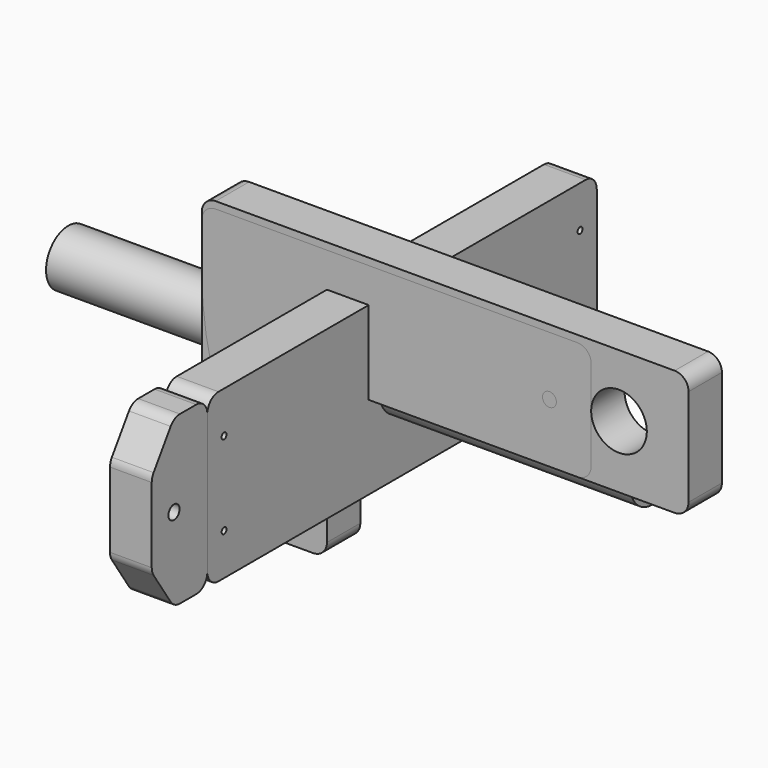
from build123d import *

# Parameters (mm, degrees)
F0_R            = 3.175
F0_R_2          = 12.7
F1_DEPTH        = 19.05
F2_R            = 6.35
F3_R            = 3.175
F4_DEPTH        = 19.05
F5_R            = 6.35
F6_R            = 3.175
F7_W            = 222.25
F7_H            = 76.2
F8_DEPTH        = 19.05
F7_R            = 3.175
F9_DEPTH        = 19.05
F10_R           = 12.7
F11_DEPTH       = 133.35
F12_R           = 6.35
F12_2_R         = 6.35
F13_D           = 2.794
F13_CSINK_D     = 7.62
F13_CSINK_ANGLE = 90


with BuildPart() as f1:
    # F0 (on Front) → F1 (new body)
    with BuildSketch(Plane.XZ):
        Polygon((0, -66.675), (0, 0), (165.1, 0), (165.1, 57.15), (-57.15, 57.15), (-57.15, -66.675), align=None)
        with Locations((-12.7, -42.8625)):
            Circle(F0_R, mode=Mode.SUBTRACT)
        with Locations((-44.45, 28.575)):
            Circle(F0_R, mode=Mode.SUBTRACT)
        with Locations((133.35, 28.575)):
            Circle(F0_R_2, mode=Mode.SUBTRACT)
    extrude(amount=F1_DEPTH)

    # F2
    f2_edges = [f1.edges().sort_by_distance(p)[0] for p in [
        (0, -9.525, 0),
        (-57.15, -9.525, 57.15),
        (165.1, -9.525, 57.15),
        (165.1, -9.525, 0),
        (-57.15, -9.525, -66.675),
        (0, -9.525, -66.675),
    ]]
    fillet(f2_edges, radius=F2_R)


with BuildPart() as f4:
    # F3 (on Front) → F4 (new body)
    with BuildSketch(Plane.XZ):
        with BuildLine():
            Line((0, -69.85), (0, 0))
            Line((0, 0), (120.65, 0))
            Line((120.65, 0), (120.65, 53.975))
            Line((120.65, 53.975), (-57.15, 53.975))
            Line((-57.15, 53.975), (-57.15, 26.9875))
            ThreePointArc((-57.15, 26.9875), (-50.0547683455, -19.9421679945), (-29.4033072368, -62.6768518519))
            Line((-29.4033072368, -62.6768518519), (-39.8835718158, -69.85))
            Line((-39.8835718158, -69.85), (0, -69.85))
        make_face()
        with Locations((101.6, 26.9875)):
            Circle(F3_R, mode=Mode.SUBTRACT)
    extrude(amount=F4_DEPTH)

    # F5
    f5_edges = [f4.edges().sort_by_distance(p)[0] for p in [
        (-57.15, -9.525, 53.975),
        (-29.403307, -9.525, -62.676852),
        (0, -9.525, -69.85),
        (0, -9.525, 0),
        (120.65, -9.525, 0),
        (120.65, -9.525, 53.975),
    ]]
    fillet(f5_edges, radius=F5_R)

    # F6
    f6_edges = [f4.edges().sort_by_distance(p)[0] for p in [
        (-39.883572, -9.525, -69.85),
    ]]
    fillet(f6_edges, radius=F6_R)


with BuildPart() as f8:
    # F7 (on Right) → F8 (new body)
    with BuildSketch(Plane.YZ):
        Rectangle(F7_W, F7_H)
    extrude(amount=F8_DEPTH)

    # F12#2
    f12_2_edges = [f8.edges().sort_by_distance(p)[0] for p in [
        (9.525, -111.125, 38.1),
        (9.525, -111.125, -38.1),
        (9.525, 111.125, -38.1),
        (9.525, 111.125, 38.1),
    ]]
    fillet(f12_2_edges, radius=F12_2_R)

    # F13 (through all)
    with Locations(Plane(origin=(0, 0, 0), x_dir=(0, 1, 0), z_dir=(-1, 0, 0))):
        with Locations((-101.6, -19.05), (-101.6, 19.05), (101.6, 19.05), (101.6, -19.05)):
            CounterSinkHole(F13_D / 2, F13_CSINK_D / 2, counter_sink_angle=F13_CSINK_ANGLE)


with BuildPart() as f9:
    # F7 (on Right) → F9 (new body)
    with BuildSketch(Plane.YZ):
        Polygon((-111.125, -38.1), (-111.125, 38.1), (-130.175, 38.1), (-142.875, 19.05), (-142.875, -19.05), (-130.175, -38.1), align=None)
        with Locations((-130.175, 0)):
            Circle(F7_R, mode=Mode.SUBTRACT)
    extrude(amount=F9_DEPTH)

    # F12
    f12_edges = [f9.edges().sort_by_distance(p)[0] for p in [
        (9.525, -111.125, 38.1),
        (9.525, -130.175, 38.1),
        (9.525, -142.875, 19.05),
        (9.525, -142.875, -19.05),
        (9.525, -130.175, -38.1),
        (9.525, -111.125, -38.1),
    ]]
    fillet(f12_edges, radius=F12_R)


with BuildPart() as f11:
    # F10 (on Right) → F11 (new body, symmetric)
    with BuildSketch(Plane.YZ):
        Circle(F10_R)
    extrude(amount=F11_DEPTH, both=True)


solid = Compound([f1.part, f4.part, f8.part, f9.part, f11.part])
